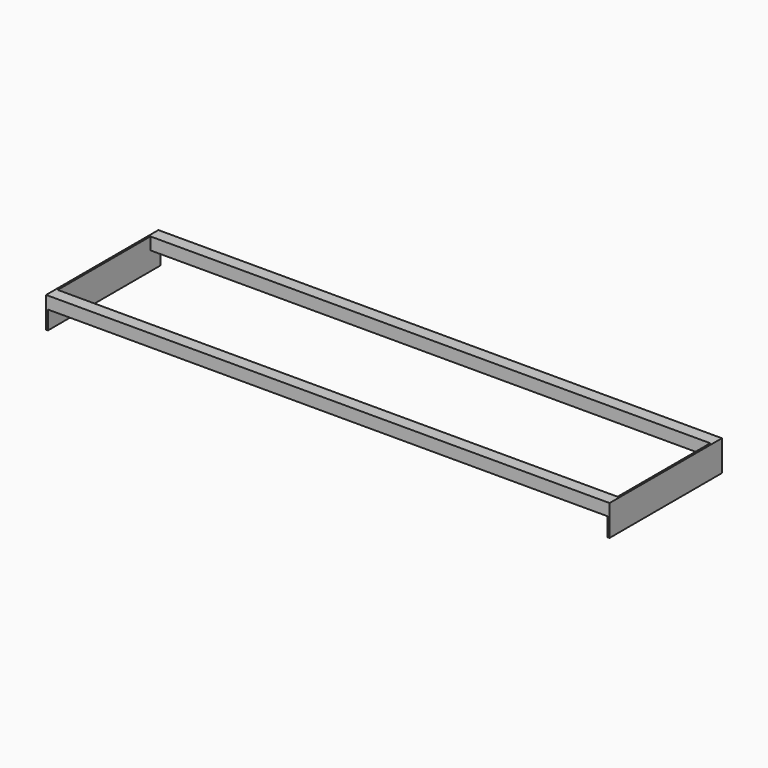
from build123d import *

# Parameters (mm, degrees)
F0_W     = 40
F0_H     = 40
F0_W_2   = 34
F0_H_2   = 34
F1_DEPTH = 1828.8
F2_W     = 457.2
F2_H     = 100
F3_DEPTH = 6
F4_W     = 40
F4_H     = 40
F4_W_2   = 34
F4_H_2   = 34
F5_DEPTH = 1828.8
F6_W     = 457.2
F6_H     = 100
F7_DEPTH = 6


with BuildPart() as f1:
    # F0 (on Right) → F1 (new body)
    with BuildSketch(Plane.YZ):
        with Locations((-1.69964, 1.148437)):
            Rectangle(F0_W, F0_H)
        with Locations((-1.69964, 1.148437)):
            Rectangle(F0_W_2, F0_H_2, mode=Mode.SUBTRACT)
    extrude(amount=F1_DEPTH)

    # F2 (on Right) → F3 (join)
    with BuildSketch(Plane.YZ):
        with Locations((206.90036, -28.851563)):
            Rectangle(F2_W, F2_H)
    extrude(amount=F3_DEPTH)

    # F4 (on face) → F5 (join)
    with BuildSketch(Plane.YZ.offset(6)):
        with Locations((415.50036, 1.148437)):
            Rectangle(F4_W, F4_H)
        with Locations((415.50036, 1.148437)):
            Rectangle(F4_W_2, F4_H_2, mode=Mode.SUBTRACT)
    extrude(amount=F5_DEPTH)

    # F6 (on face) → F7 (join)
    with BuildSketch(Plane.YZ.offset(1828.8)):
        with Locations((206.90036, -28.851563)):
            Rectangle(F6_W, F6_H)
    extrude(amount=F7_DEPTH)


solid = f1.part
